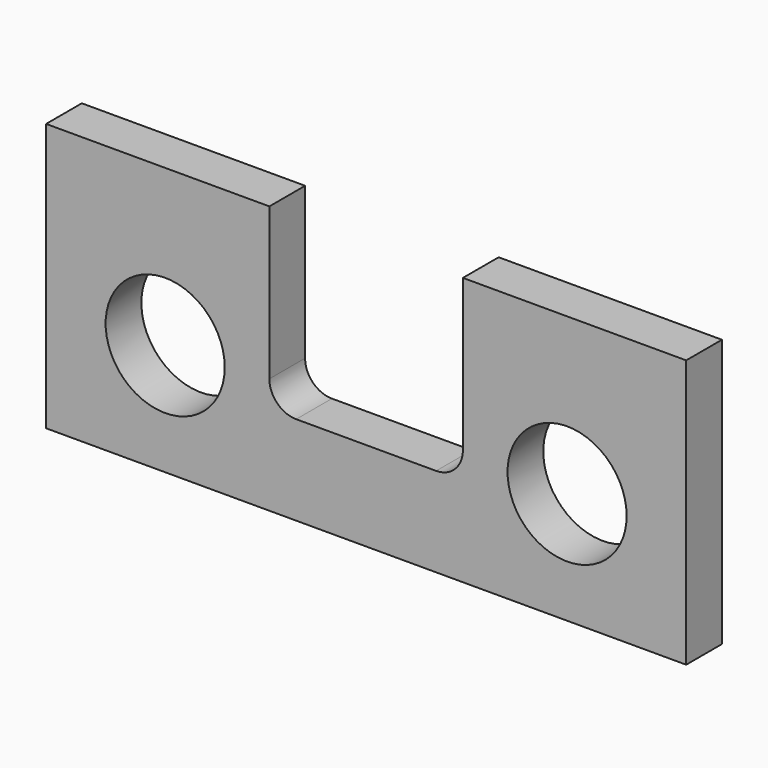
from build123d import *

# Parameters (mm, degrees)
F0_W     = 273.05
F0_H     = 114.3
F1_DEPTH = 19.05
F2_R     = 25.4
F3_DEPTH = 25.4
F5_DEPTH = 25.4


with BuildPart() as f1:
    # F0 (on Front) → F1 (new body)
    with BuildSketch(Plane.XZ):
        with Locations((136.525, 57.15)):
            Rectangle(F0_W, F0_H)
    extrude(amount=F1_DEPTH)

    # F2 (on face) → F3 (cut)
    with BuildSketch(Plane.XZ.offset(19.05)):
        with Locations((222.25, 47.625)):
            Circle(F2_R)
        with Locations((50.8, 47.625)):
            Circle(F2_R)
    extrude(amount=-F3_DEPTH, mode=Mode.SUBTRACT)

    # F4 (on face) → F5 (cut)
    with BuildSketch(Plane.XZ.offset(19.05)):
        with BuildLine():
            Line((177.8, 114.3), (95.25, 114.3))
            Line((95.25, 114.3), (95.25, 49.53))
            ThreePointArc((95.25, 49.53), (98.597769, 41.447769), (106.68, 38.1))
            Line((106.68, 38.1), (166.37, 38.1))
            ThreePointArc((166.37, 38.1), (174.452231, 41.447769), (177.8, 49.53))
            Line((177.8, 49.53), (177.8, 114.3))
        make_face()
    extrude(amount=-F5_DEPTH, mode=Mode.SUBTRACT)


solid = f1.part
